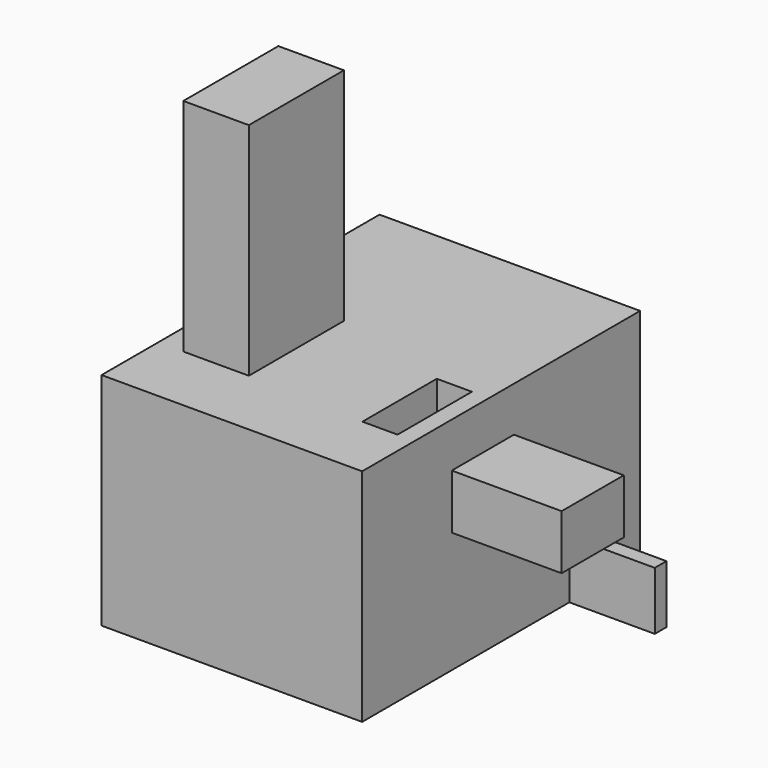
from build123d import *

# Parameters (mm, degrees)
F0_W      = 30
F0_H      = 40
F1_DEPTH  = 25.4
F3_W      = 7.5436746702
F3_H      = 13.6774647981
F4_DEPTH  = 25.4
F5_W      = 4.043773748
F5_H      = 10.6986747123
F6_DEPTH  = 12.954
F7_W      = 1.6801413149
F7_H      = 6.6922605038
F8_DEPTH  = 25.4
F9_W      = 21.6371780261
F9_H      = 15.7099463977
F10_DEPTH = 10.922
F11_W     = 8.9419111609
F11_H     = 6.2935836613
F12_DEPTH = 12.6496255398


with BuildPart() as f1:
    # F0 (on Top) → F1 (new body)
    with BuildSketch(Plane.XY):
        with Locations((0.5621314049, -1.8406331738)):
            Rectangle(F0_W, F0_H)
    extrude(amount=F1_DEPTH)

    # F3 (on face) → F4 (join)
    with BuildSketch(Plane.XY.offset(25.4)):
        with Locations((-7.7819279395, -6.838732399)):
            Rectangle(F3_W, F3_H)
    extrude(amount=F4_DEPTH)

    # F5 (on face) → F6 (cut)
    with BuildSketch(Plane.XY.offset(25.4)):
        with Locations((11.5681807511, -8.9288947638)):
            Rectangle(F5_W, F5_H)
    extrude(amount=-F6_DEPTH, mode=Mode.SUBTRACT)

    # F7 (on Right) → F8 (join)
    with BuildSketch(Plane.YZ):
        with Locations((8.8164666668, 3.3461302519)):
            Rectangle(F7_W, F7_H)
    extrude(amount=F8_DEPTH)

    # F9 (on face) → F10 (cut)
    with BuildSketch(Plane(origin=(-14.4378685951, 0, 0), x_dir=(0, -1, 0), z_dir=(-1, 0, 0))):
        with Locations((-4.5737433247, 14.6038669627)):
            Rectangle(F9_W, F9_H)
    extrude(amount=-F10_DEPTH, mode=Mode.SUBTRACT)

    # F11 (on face) → F12 (join)
    with BuildSketch(Plane.YZ.offset(15.5621314049)):
        with Locations((-4.4709555805, 17.0851889998)):
            Rectangle(F11_W, F11_H)
    extrude(amount=F12_DEPTH)


solid = f1.part
